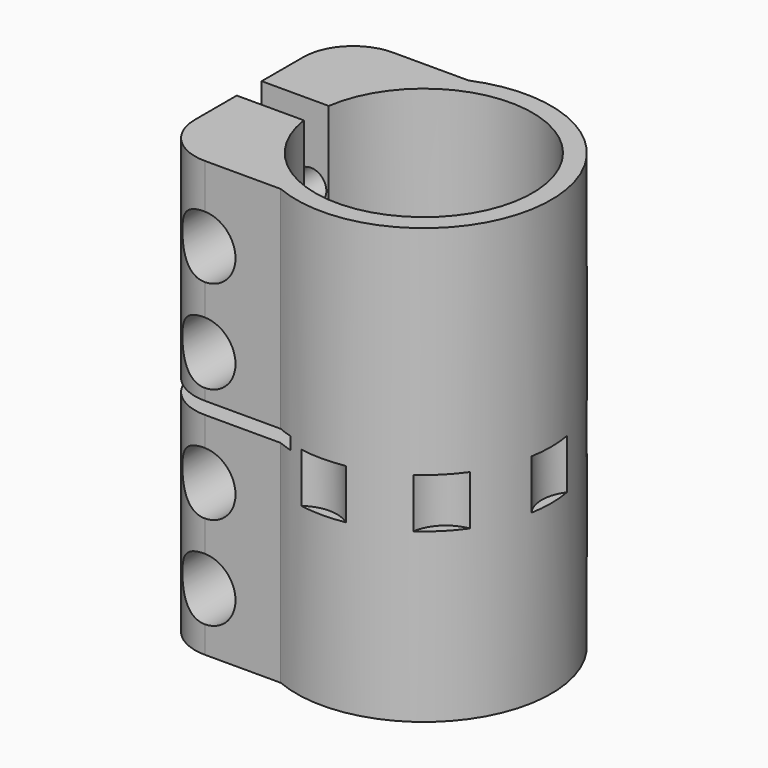
from build123d import *

# Parameters (mm, degrees)
F1_DEPTH       = 35
F3_D           = 5
F3_START       = 1.8205079
F3_CBORE_D     = 10
F3_CBORE_DEPTH = 8
F4_W           = 22.4
F4_H           = 2
F5_DEPTH       = 27.5
F6_R           = 6
F7_DEPTH       = 8


with BuildPart() as f1:
    # F0 (on Top) → F1 (new body, symmetric)
    with BuildSketch(Plane.XY):
        with BuildLine():
            ThreePointArc((-17.3192642082, 2.5086026559), (17.5, 0), (-17.3192642082, -2.5086026559))
            Line((-17.3192642082, -2.5086026559), (-28.1192642082, -2.5086026559))
            Line((-28.1192642082, -2.5086026559), (-28.1192642082, -10.9086026559))
            ThreePointArc((-28.1192642082, -10.9086026559), (-25.7761184577, -16.5654569054), (-20.1192642082, -18.9086026559))
            Line((-20.1192642082, -18.9086026559), (-7.9192642082, -18.9086026559))
            ThreePointArc((-7.9192642082, -18.9086026559), (20.5, 0), (-7.9192642082, 18.9086026559))
            Line((-7.9192642082, 18.9086026559), (-20.1192642082, 18.9086026559))
            ThreePointArc((-20.1192642082, 18.9086026559), (-25.7761184577, 16.5654569054), (-28.1192642082, 10.9086026559))
            Line((-28.1192642082, 10.9086026559), (-28.1192642082, 2.5086026559))
            Line((-28.1192642082, 2.5086026559), (-17.3192642082, 2.5086026559))
        make_face()
    extrude(amount=F1_DEPTH, both=True)

    # F3 (through all)
    # its depths count from where the whole tool has entered the part; down to there all is cleared
    with Locations(Plane.XZ.offset(18.9086026559).offset(-F3_START)):
        with Locations((-20.2, -25.683545606), (-20.2, -10.683545606), (-20.2, 7.816454394), (-20.2, 22.816454394)):
            CounterBoreHole(F3_D / 2, F3_CBORE_D / 2, F3_CBORE_DEPTH)

    # F4 (on Front) → F5 (cut, symmetric)
    with BuildSketch(Plane.XZ):
        with Locations((-16.9192642082, 0)):
            Rectangle(F4_W, F4_H)
    extrude(amount=F5_DEPTH, both=True, mode=Mode.SUBTRACT)

    # F6 (on Top) → F7 (cut)
    with BuildSketch(Plane.XY):
        with Locations((0, -25)):
            Circle(F6_R)
        with Locations((17.6776695297, -17.6776695297)):
            Circle(F6_R)
        with Locations((25, 0)):
            Circle(F6_R)
        with Locations((17.6776695297, 17.6776695297)):
            Circle(F6_R)
        with Locations((0, 25)):
            Circle(F6_R)
    extrude(amount=-F7_DEPTH, mode=Mode.SUBTRACT)


solid = f1.part
